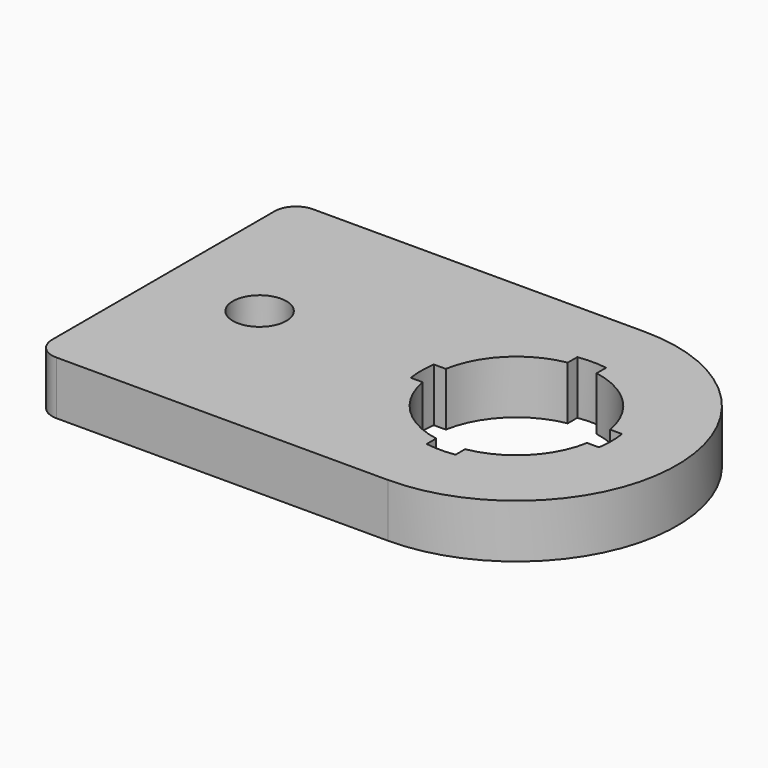
from build123d import *

# Parameters (mm, degrees)
SKETCH_R  = 2.5
PAD_DEPTH = 5


with BuildPart() as part:
    # Sketch → Pad (new body)
    with BuildSketch(Plane.XY):
        with BuildLine():
            Line((-7, 15), (24, 15))
            ThreePointArc((24, -15), (39, 0), (24, 15))
            Line((-7, -15), (24, -15))
            ThreePointArc((-9, -13), (-8.414214, -14.414214), (-7, -15))
            Line((-9, 13), (-9, -13))
            ThreePointArc((-7, 15), (-8.414214, 14.414214), (-9, 13))
        make_face()
        Circle(SKETCH_R, mode=Mode.SUBTRACT)
        with BuildLine():
            ThreePointArc((16.317715, -1.35), (18.484567, -5.515433), (22.65, -7.682285))
            Line((22.65, -7.682285), (22.65, -8.797017))
            ThreePointArc((22.65, -8.797017), (24, -8.9), (25.35, -8.797017))
            Line((25.35, -7.682285), (25.35, -8.797017))
            ThreePointArc((25.35, -7.682285), (29.515433, -5.515433), (31.682285, -1.35))
            Line((31.682285, -1.35), (32.797017, -1.35))
            ThreePointArc((32.797017, -1.35), (32.9, 0), (32.797017, 1.35))
            Line((31.682285, 1.35), (32.797017, 1.35))
            ThreePointArc((31.682285, 1.35), (29.515433, 5.515433), (25.35, 7.682285))
            Line((25.35, 8.797017), (25.35, 7.682285))
            ThreePointArc((25.35, 8.797017), (24, 8.9), (22.65, 8.797017))
            Line((22.65, 8.797017), (22.65, 7.682285))
            ThreePointArc((22.65, 7.682285), (18.484567, 5.515433), (16.317715, 1.35))
            Line((15.202983, 1.35), (16.317715, 1.35))
            ThreePointArc((15.202983, 1.35), (15.1, 0), (15.202983, -1.35))
            Line((15.202983, -1.35), (16.317715, -1.35))
        make_face(mode=Mode.SUBTRACT)
    extrude(amount=PAD_DEPTH)


solid = part.part
